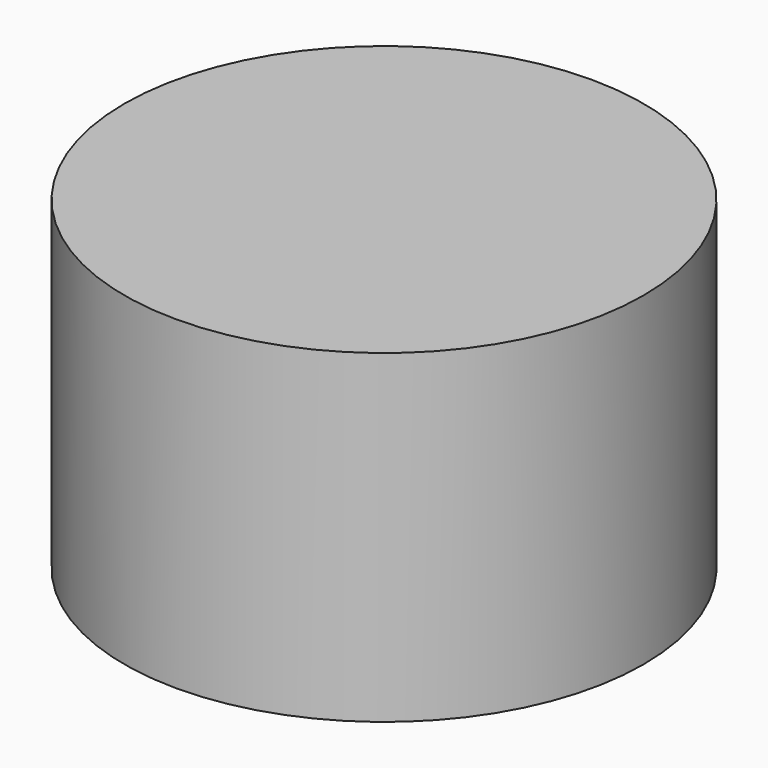
from build123d import *

# Parameters (mm, degrees)
CYLINDER_R     = 11.9888
CYLINDER_DEPTH = 15


with BuildPart() as part:
    # Cylinder → Cylinder (new body)
    with BuildSketch(Plane.XY.offset(-2.5)):
        Circle(CYLINDER_R)
    extrude(amount=CYLINDER_DEPTH)


solid = part.part
